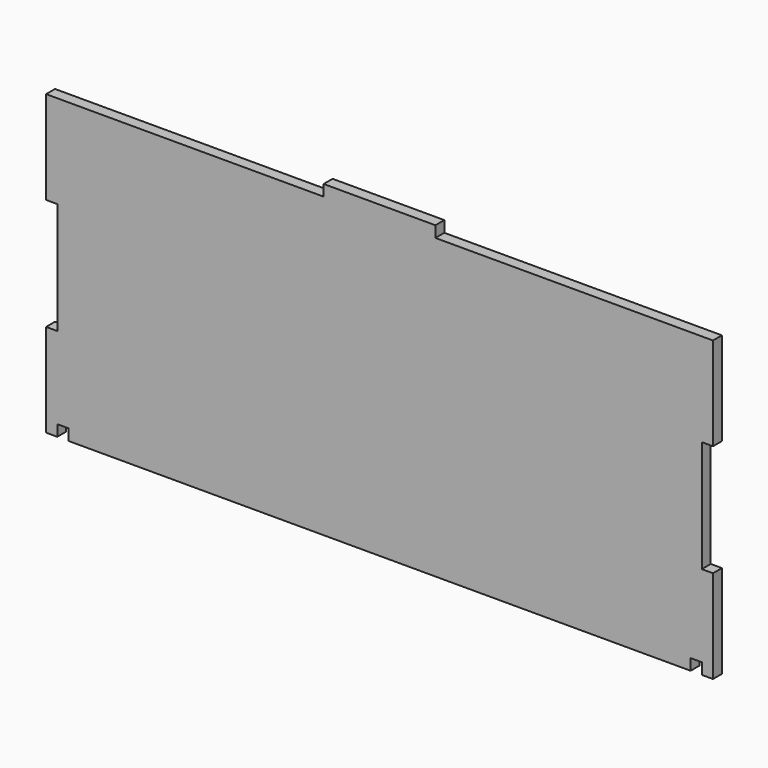
from build123d import *

# Parameters (mm, degrees)
F0_W     = 30
F0_H     = 3
F1_DEPTH = 3
F2_W     = 3
F2_H     = 30
F3_DEPTH = 25


with BuildPart() as f1:
    # F0 (on Front) → F1 (new body)
    with BuildSketch(Plane.XZ):
        Polygon((-8.748518, 1.335499), (-83.248518, 1.335499), (-83.248518, -78.664501), (-80.248518, -78.664501), (-80.248518, -75.664501), (-77.248518, -75.664501), (-77.248518, -78.664501), (89.751482, -78.664501), (89.751482, -75.664501), (92.751482, -75.664501), (92.751482, -78.664501), (95.751482, -78.664501), (95.751482, 1.335499), (21.251482, 1.335499), align=None)
        with Locations((6.251482, 2.835499)):
            Rectangle(F0_W, F0_H)
    extrude(amount=F1_DEPTH)

    # F2 (on face) → F3 (cut)
    with BuildSketch(Plane.XZ.offset(3)):
        with Locations((-81.748518, -38.664501)):
            Rectangle(F2_W, F2_H)
        with Locations((94.251482, -38.664501)):
            Rectangle(F2_W, F2_H)
    extrude(amount=-F3_DEPTH, mode=Mode.SUBTRACT)


solid = f1.part
